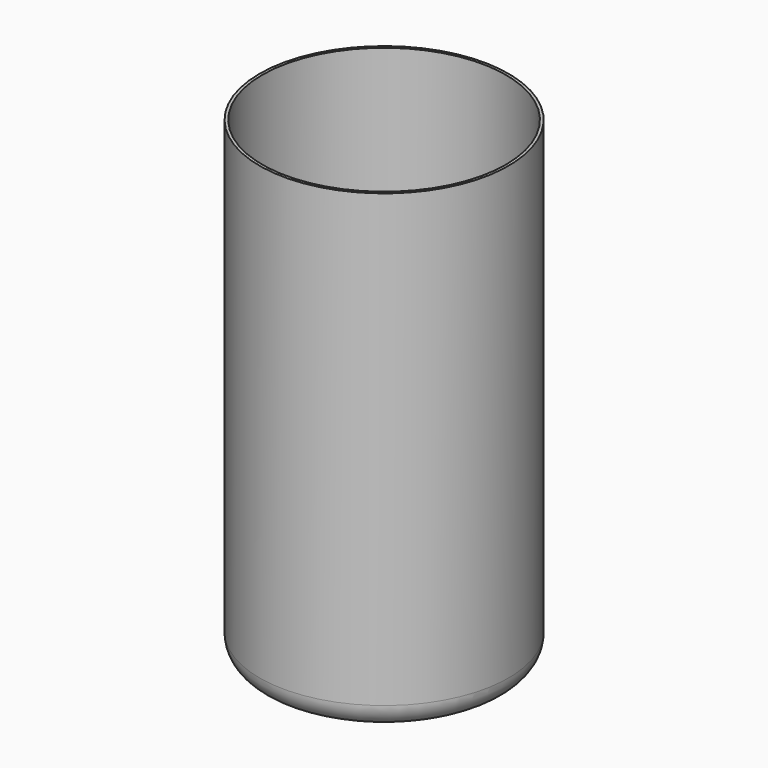
from build123d import *

# Parameters (mm, degrees)
SKETCH001_R        = 3.5
POCKET_DEPTH       = 698.197748
POLARPATTERN_COUNT = 6


with BuildPart() as part:
    # Sketch → Revolution (revolve)
    with BuildSketch(Plane.XZ):
        with BuildLine():
            Line((0, 0), (-42.5, 0))
            ThreePointArc((-52.5, 10), (-49.571068, 2.928932), (-42.5, 0))
            Line((-52.5, 10), (-52.5, 200))
            Line((-51.3, 200), (-52.5, 200))
            Line((-51.3, 200), (-51.3, 10))
            ThreePointArc((-51.3, 10), (-48.72254, 3.77746), (-42.5, 1.2))
            Line((0, 1.2), (-42.5, 1.2))
            Line((0, 1.2), (0, 0))
        make_face()
    revolve(axis=Axis((0, 0, 0), (0, 0, 1)))

    # Sketch001 → Pocket (cut, through all)
    with BuildSketch(Plane.XY):
        with Locations((-30, 0)):
            Circle(SKETCH001_R)
    pocket = extrude(amount=POCKET_DEPTH, mode=Mode.SUBTRACT)

    # PolarPattern: Pocket ×6 about axis
    polarpattern_axis = Axis((0, 0, 0), (0, 0, 1))
    for i in range(1, POLARPATTERN_COUNT):
        add(pocket.rotate(polarpattern_axis, i * 360 / POLARPATTERN_COUNT), mode=Mode.SUBTRACT)


solid = part.part
